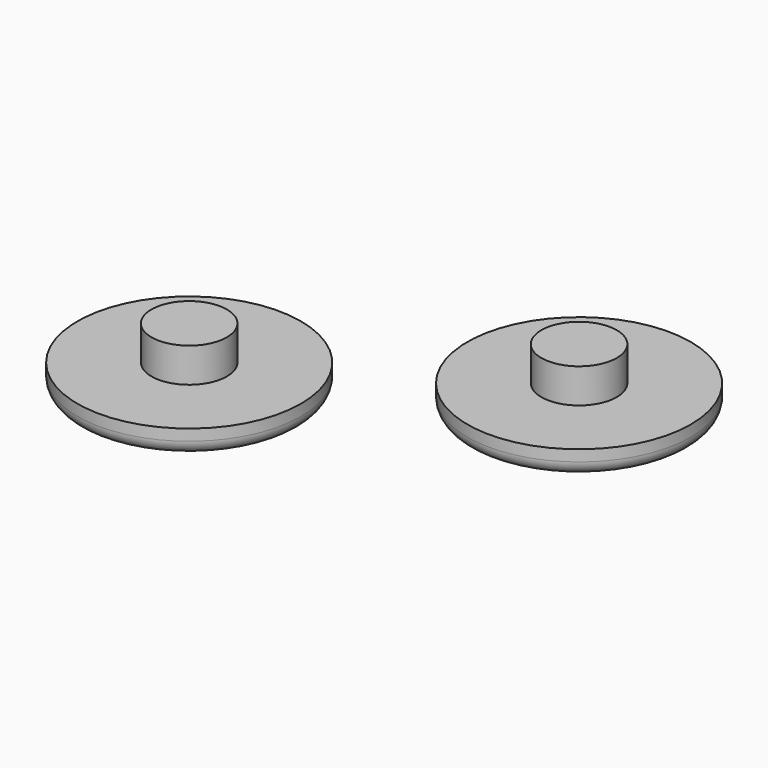
from build123d import *

# Parameters (mm, degrees)
F0_R     = 12
F0_R_2   = 4.05
F1_DEPTH = 2.7
F2_DEPTH = 6.4
F3_R     = 1.5


with BuildPart() as f1:
    # F0 (on Top) → F1 (new body)
    with BuildSketch(Plane.XY):
        Circle(F0_R)
        Circle(F0_R_2, mode=Mode.SUBTRACT)
        with Locations((27.877051, 17.489759)):
            Circle(F0_R)
        with Locations((27.877051, 17.489759)):
            Circle(F0_R_2, mode=Mode.SUBTRACT)
    extrude(amount=F1_DEPTH)

    # F3
    f3_edges = [f1.edges().sort_by_distance(p)[0] for p in [
        (15.877051, 17.489759, 0),
        (-12, 0, 0),
    ]]
    fillet(f3_edges, radius=F3_R)


with BuildPart() as f2:
    # F0 (on Top) → F2 (new body)
    with BuildSketch(Plane.XY):
        Circle(F0_R_2)
        with Locations((27.877051, 17.489759)):
            Circle(F0_R_2)
    extrude(amount=F2_DEPTH)


solid = Compound([f1.part, f2.part])
